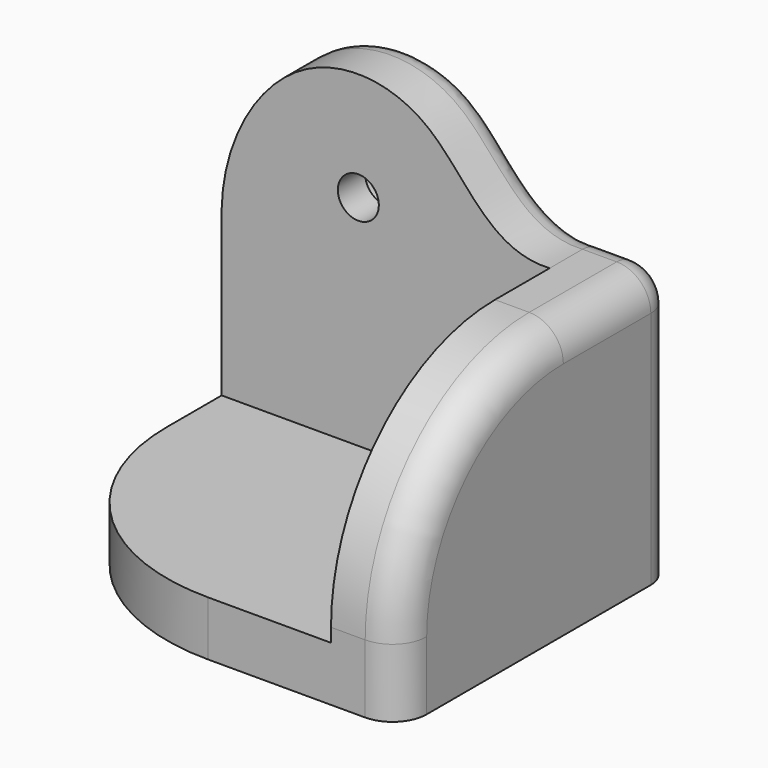
from build123d import *

# Parameters (mm, degrees)
F0_W     = 24
F0_H     = 4
F1_DEPTH = 25
F0_R     = 3
F0_R_2   = 1.5
F2_DEPTH = 5
F3_R     = 15
F4_R     = 2.5
F5_DEPTH = 2.5
F6_R     = 2
F7_R     = 0.75


with BuildPart() as f1:
    # F0 (on Front) → F1 (new body)
    with BuildSketch(Plane.XZ):
        with Locations((-12, 2)):
            Rectangle(F0_W, F0_H)
        Polygon((0, 20), (0, 4), (0, 0), (5, 0), (5, 20), align=None)
    extrude(amount=F1_DEPTH)

    # F0 (on Front) → F2 (join)
    with BuildSketch(Plane.XZ):
        with BuildLine():
            Line((-24, 16), (-24, 4))
            Line((-24, 4), (0, 4))
            Line((0, 4), (0, 20))
            add(Edge.make_bspline(
                [(-24, 16), (-23.9093121332, 20.5852864547), (-19.2329736628, 28.9244579006), (-7.5913408906, 27.8374196293), (-4.487070255, 19.7345465422), (0, 20)],
                knots=[0, 0, 0, 0, 0.3592153928, 0.6653798243, 1, 1, 1, 1], degree=3))
        make_face()
        with Locations((-14, 20)):
            Circle(F0_R, mode=Mode.SUBTRACT)
        with Locations((-12, 2)):
            Rectangle(F0_W, F0_H)
        Polygon((0, 20), (0, 4), (0, 0), (5, 0), (5, 20), align=None)
        with Locations((-14, 20)):
            Circle(F0_R)
        with Locations((-14, 20)):
            Circle(F0_R_2, mode=Mode.SUBTRACT)
    extrude(amount=F2_DEPTH)

    # F3
    f3_edges = [f1.edges().sort_by_distance(p)[0] for p in [
        (-24, -25, 2),
        (2.5, -25, 20),
    ]]
    fillet(f3_edges, radius=F3_R)

    # F4
    f4_edges = [f1.edges().sort_by_distance(p)[0] for p in [
        (5, -5, 20),
    ]]
    fillet(f4_edges, radius=F4_R)

    # F0 (on Front) → F5 (cut, symmetric)
    with BuildSketch(Plane.XZ):
        with Locations((-14, 20)):
            Circle(F0_R)
        with Locations((-14, 20)):
            Circle(F0_R_2, mode=Mode.SUBTRACT)
    extrude(amount=F5_DEPTH, both=True, mode=Mode.SUBTRACT)

    # F6
    f6_edges = [f1.edges().sort_by_distance(p)[0] for p in [
        (5, 0, 8.75),
        (4.267767, 0, 19.267767),
        (-24, 0, 8),
        (-14.21195, 0, 27.945974),
        (1.25, 0, 20),
    ]]
    fillet(f6_edges, radius=F6_R)

    # F7
    f7_edges = [f1.edges().sort_by_distance(p)[0] for p in [
        (-17, 0, 20),
    ]]
    fillet(f7_edges, radius=F7_R)


solid = f1.part
